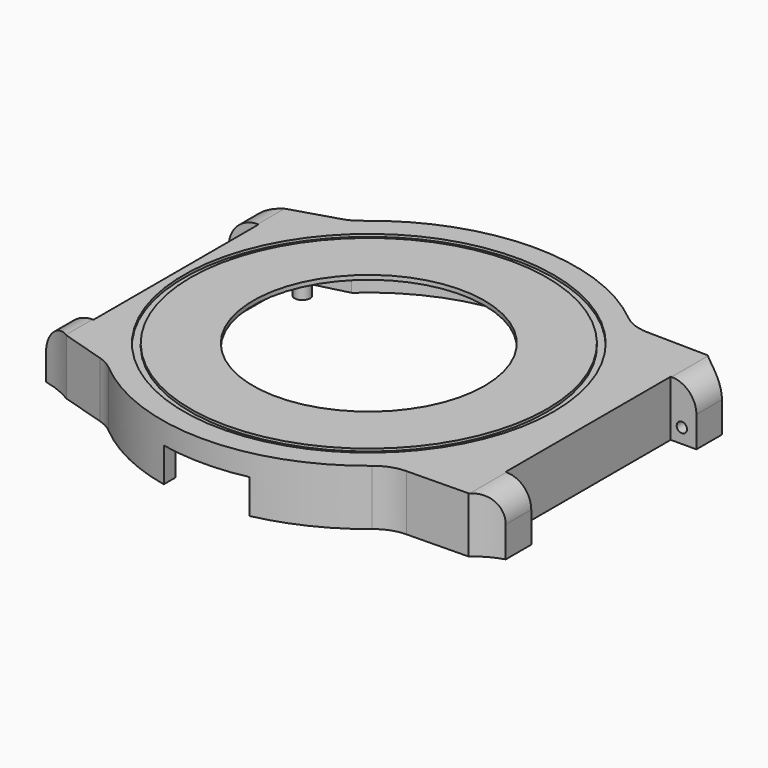
from build123d import *

# Parameters (mm, degrees)
PAD_DEPTH       = 6.5
POCKET_DEPTH    = 6
SKETCH002_R     = 13.5
POCKET001_DEPTH = 1
SKETCH003_W     = 5.4
SKETCH003_H     = 6.5
PAD001_DEPTH    = 3
POCKET002_DEPTH = 10
SKETCH008_R     = 0.6
POCKET003_DEPTH = 2
SKETCH009_R     = 0.6
POCKET004_DEPTH = 2
FILLET_R        = 2.9
FILLET001_R     = 2.9
FILLET002_R     = 5
FILLET003_R     = 5
FILLET004_R     = 5
FILLET005_R     = 5
SKETCH010_W     = 3.95
SKETCH010_H     = 6.5
PAD002_DEPTH    = 3.5
POCKET005_DEPTH = 10
SKETCH012_R     = 0.6
POCKET006_DEPTH = 2
SKETCH013_R     = 0.6
POCKET007_DEPTH = 2
FILLET006_R     = 3.4
FILLET007_R     = 3.4
SKETCH014_R     = 21.6
SKETCH014_R_2   = 20.8
POCKET008_DEPTH = 0.3
SKETCH015_R     = 0.9
PAD003_DEPTH    = 6
FILLET008_R     = 1
POCKET009_DEPTH = 4


with BuildPart() as part:
    # Sketch → Pad (new body)
    with BuildSketch(Plane.XY):
        with BuildLine():
            Line((-22.501992, 16), (-22.501992, -16))
            Line((-22.501992, -16), (-16.285883, -17.9))
            ThreePointArc((-16.285883, -17.9), (0.22069, -24.198994), (16.609636, -17.6))
            Line((16.609636, -17.6), (25.608386, -17.45))
            Line((25.608386, 17.45), (25.608386, -17.45))
            Line((16.609636, 17.6), (25.608386, 17.45))
            ThreePointArc((16.609636, 17.6), (0.22069, 24.198994), (-16.285883, 17.9))
            Line((-22.501992, 16), (-16.285883, 17.9))
        make_face()
    extrude(amount=PAD_DEPTH)

    # Sketch001 → Pocket (cut)
    with BuildSketch(Plane.XY):
        with BuildLine():
            Line((-15.242949, 16.55), (-20.574694, 15.2))
            Line((-20.574694, 15.2), (-20.574694, -15.2))
            Line((-20.574694, -15.2), (-15.242949, -16.55))
            ThreePointArc((-15.242949, -16.55), (0, -22.5), (15.242949, -16.55))
            Line((15.242949, -16.55), (23.527875, -16.05))
            Line((23.527875, 16.05), (23.527875, -16.05))
            Line((15.242949, 16.55), (23.527875, 16.05))
            ThreePointArc((15.242949, 16.55), (0, 22.5), (-15.242949, 16.55))
        make_face()
    extrude(amount=POCKET_DEPTH, mode=Mode.SUBTRACT)

    # Sketch002 (on Face19 of Pocket) → Pocket001 (cut)
    with BuildSketch(Plane(origin=(0, 0, 6), x_dir=(1, 0, 0), z_dir=(0, 0, -1))):
        Circle(SKETCH002_R)
    extrude(amount=-POCKET001_DEPTH, mode=Mode.SUBTRACT)

    # Sketch003 (on Face6 of Pocket001) → Pad001 (join)
    with BuildSketch(Plane.YZ.offset(25.608386)):
        with Locations((-14.75, 3.25)):
            Rectangle(SKETCH003_W, SKETCH003_H)
        with Locations((14.75, 3.25)):
            Rectangle(SKETCH003_W, SKETCH003_H)
    extrude(amount=PAD001_DEPTH)

    # Sketch006 → Pocket002 (cut)
    with BuildSketch(Plane.XY.offset(6.5)):
        with BuildLine():
            ThreePointArc((25.608386, 17.45), (27.01354, 16.442644), (28.608386, 15.775042))
            Line((28.608386, 17.45), (28.608386, 15.775042))
            Line((28.608386, 17.45), (25.608386, 17.45))
        make_face()
        with BuildLine():
            ThreePointArc((28.608386, -15.775042), (27.01354, -16.442644), (25.608386, -17.45))
            Line((28.608386, -17.45), (25.608386, -17.45))
            Line((28.608386, -15.775042), (28.608386, -17.45))
        make_face()
    extrude(amount=-POCKET002_DEPTH, mode=Mode.SUBTRACT)

    # Sketch008 (on Face27 of Pocket002) → Pocket003 (cut)
    with BuildSketch(Plane(origin=(0, -12.05, 0), x_dir=(-1, 0, 0), z_dir=(0, 1, 0))):
        with Locations((-26.908386, 1.7)):
            Circle(SKETCH008_R)
    extrude(amount=-POCKET003_DEPTH, mode=Mode.SUBTRACT)

    # Sketch009 (on Face26 of Pocket003) → Pocket004 (cut)
    with BuildSketch(Plane.XZ.offset(-12.05)):
        with Locations((26.908386, 1.7)):
            Circle(SKETCH009_R)
    extrude(amount=-POCKET004_DEPTH, mode=Mode.SUBTRACT)

    # Fillet
    fillet_edges = [part.edges().sort_by_distance(p)[0] for p in [
        (28.608386, -13.912521, 6.5),
    ]]
    fillet(fillet_edges, radius=FILLET_R)

    # Fillet001
    fillet001_edges = [part.edges().sort_by_distance(p)[0] for p in [
        (28.608386, 13.912521, 6.5),
    ]]
    fillet(fillet001_edges, radius=FILLET001_R)

    # Fillet002
    fillet002_edges = [part.edges().sort_by_distance(p)[0] for p in [
        (16.609636, -17.6, 3.25),
    ]]
    fillet(fillet002_edges, radius=FILLET002_R)

    # Fillet003
    fillet003_edges = [part.edges().sort_by_distance(p)[0] for p in [
        (16.609636, 17.6, 3.25),
    ]]
    fillet(fillet003_edges, radius=FILLET003_R)

    # Fillet004
    fillet004_edges = [part.edges().sort_by_distance(p)[0] for p in [
        (-16.285883, -17.9, 3.25),
    ]]
    fillet(fillet004_edges, radius=FILLET004_R)

    # Fillet005
    fillet005_edges = [part.edges().sort_by_distance(p)[0] for p in [
        (-16.285883, 17.9, 3.25),
    ]]
    fillet(fillet005_edges, radius=FILLET005_R)

    # Sketch010 (on Face4 of Fillet005) → Pad002 (join)
    with BuildSketch(Plane(origin=(-22.501992, 0, 0), x_dir=(0, -1, 0), z_dir=(-1, 0, 0))):
        with Locations((-14.025, 3.25)):
            Rectangle(SKETCH010_W, SKETCH010_H)
        with Locations((14.025, 3.25)):
            Rectangle(SKETCH010_W, SKETCH010_H)
    extrude(amount=PAD002_DEPTH)

    # Sketch011 (on Face6 of Pad002) → Pocket005 (cut)
    with BuildSketch(Plane.XY.offset(6.5)):
        with BuildLine():
            ThreePointArc((-26.001992, 14.6), (-24.192608, 15.15154), (-22.501992, 16))
            Line((-22.501992, 16), (-26.001992, 16))
            Line((-26.001992, 16), (-26.001992, 14.6))
        make_face()
        with BuildLine():
            ThreePointArc((-22.501992, -16), (-24.192608, -15.15154), (-26.001992, -14.6))
            Line((-26.001992, -14.6), (-26.001992, -16))
            Line((-26.001992, -16), (-22.501992, -16))
        make_face()
    extrude(amount=-POCKET005_DEPTH, mode=Mode.SUBTRACT)

    # Sketch012 (on Face23 of Pocket005) → Pocket006 (cut)
    with BuildSketch(Plane(origin=(0, -12.05, 0), x_dir=(-1, 0, 0), z_dir=(0, 1, 0))):
        with Locations((24.301992, 1.7)):
            Circle(SKETCH012_R)
    extrude(amount=-POCKET006_DEPTH, mode=Mode.SUBTRACT)

    # Sketch013 (on Face21 of Pocket006) → Pocket007 (cut)
    with BuildSketch(Plane.XZ.offset(-12.05)):
        with Locations((-24.301992, 1.7)):
            Circle(SKETCH013_R)
    extrude(amount=-POCKET007_DEPTH, mode=Mode.SUBTRACT)

    # Fillet006
    fillet006_edges = [part.edges().sort_by_distance(p)[0] for p in [
        (-26.001992, 13.325, 6.5),
    ]]
    fillet(fillet006_edges, radius=FILLET006_R)

    # Fillet007
    fillet007_edges = [part.edges().sort_by_distance(p)[0] for p in [
        (-26.001992, -13.325, 6.5),
    ]]
    fillet(fillet007_edges, radius=FILLET007_R)

    # Sketch014 (on Face4 of Fillet007) → Pocket008 (cut)
    with BuildSketch(Plane.XY.offset(6.5)):
        Circle(SKETCH014_R)
        Circle(SKETCH014_R_2, mode=Mode.SUBTRACT)
    extrude(amount=-POCKET008_DEPTH, mode=Mode.SUBTRACT)

    # Sketch015 (on Face55 of Pocket008) → Pad003 (join)
    with BuildSketch(Plane(origin=(0, 0, 6), x_dir=(1, 0, 0), z_dir=(0, 0, -1))):
        with Locations((-18.42, 13.32)):
            Circle(SKETCH015_R)
        with Locations((-18.42, -13.32)):
            Circle(SKETCH015_R)
        with Locations((7.27, 18.56)):
            Circle(SKETCH015_R)
        with Locations((5.37, -19.79)):
            Circle(SKETCH015_R)
    extrude(amount=PAD003_DEPTH)

    # Fillet008
    fillet008_edges = [part.edges().sort_by_distance(p)[0] for p in [
        (-19.32, -13.32, 6),
        (6.37, -18.56, 6),
        (-19.32, 13.32, 6),
        (4.47, 19.79, 6),
    ]]
    fillet(fillet008_edges, radius=FILLET008_R)

    # Sketch016 (on Face16 of Fillet008) → Pocket009 (cut)
    with BuildSketch(Plane(origin=(0, 0, 0), x_dir=(1, 0, 0), z_dir=(0, 0, -1))):
        with BuildLine():
            Line((-5, 23.677838), (-5, 21.937411))
            ThreePointArc((5, 21.937411), (0, 22.5), (-5, 21.937411))
            Line((5, 23.677838), (5, 21.937411))
            ThreePointArc((5, 23.677838), (0, 24.2), (-5, 23.677838))
        make_face()
    extrude(amount=-POCKET009_DEPTH, mode=Mode.SUBTRACT)


solid = part.part
